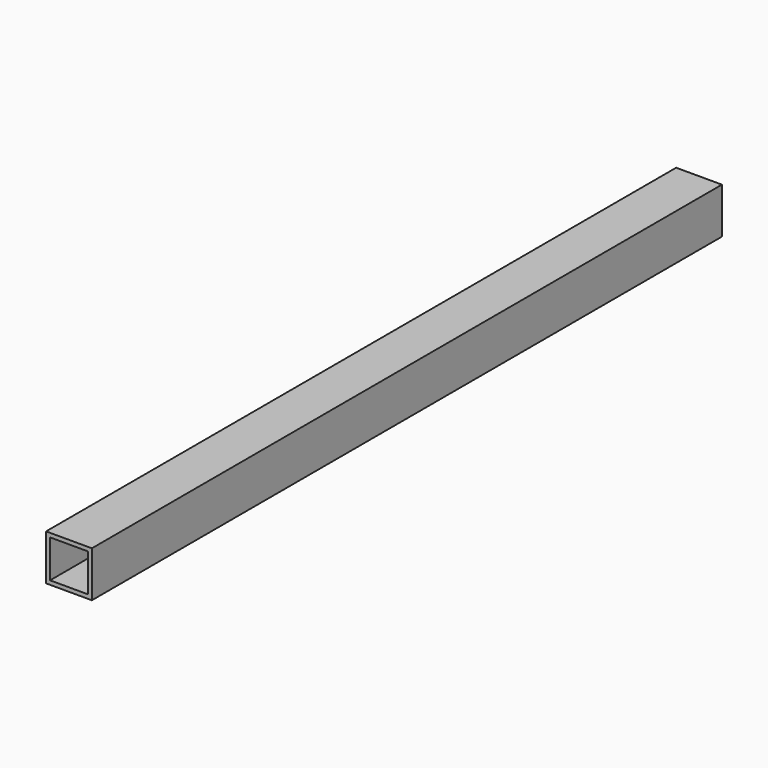
from build123d import *

# Parameters (mm, degrees)
SKETCH_W   = 31.75
SKETCH_H   = 31.75
SKETCH_W_2 = 26.2128
SKETCH_H_2 = 26.2128
PAD_DEPTH  = 546.1


with BuildPart() as part:
    # Sketch → Pad (new body)
    with BuildSketch(Plane.XZ):
        Rectangle(SKETCH_W, SKETCH_H)
        Rectangle(SKETCH_W_2, SKETCH_H_2, mode=Mode.SUBTRACT)
    extrude(amount=PAD_DEPTH)


solid = part.part
